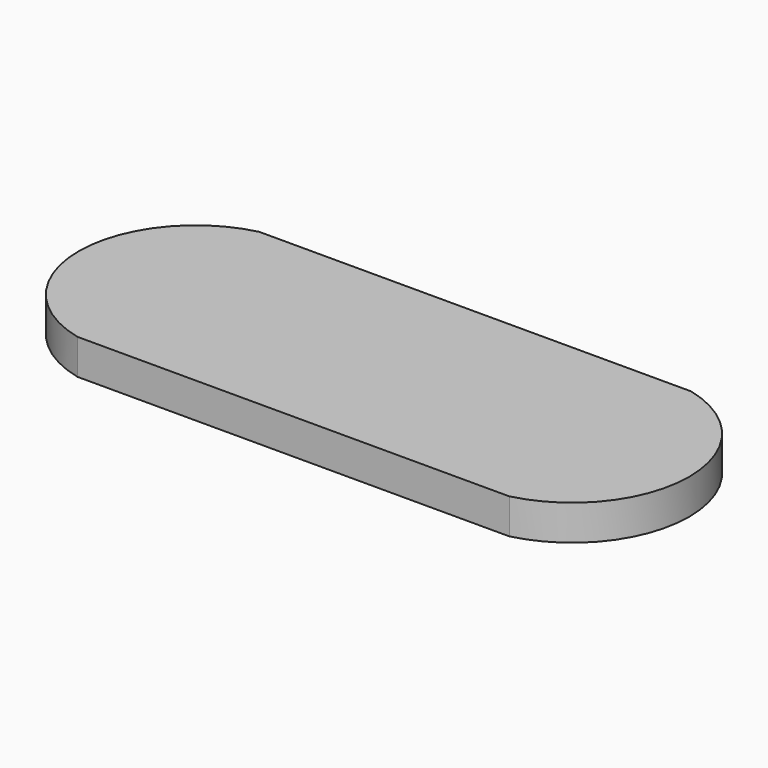
from build123d import *

# Parameters (mm, degrees)
F1_DEPTH = 1
F3_DEPTH = 0.55


with BuildPart() as f1:
    # F0 (on Top) → F1 (new body)
    with BuildSketch(Plane.XY):
        with BuildLine():
            Line((-9.5, -5), (9.5, -5))
            ThreePointArc((9.5, -5), (13.418354, 0), (9.5, 5))
            Line((9.5, 5), (-9.5, 5))
            ThreePointArc((-9.5, 5), (-13.44077, 0), (-9.5, -5))
        make_face()
    extrude(amount=F1_DEPTH)

    # F2 (on face) → F3 (join)
    with BuildSketch(Plane.XY.offset(1)):
        with BuildLine():
            Line((9.5, 5), (-9.5, 5))
            ThreePointArc((-9.5, 5), (-13.44077, 0), (-9.5, -5))
            Line((-9.5, -5), (9.5, -5))
            ThreePointArc((9.5, -5), (13.418354, 0), (9.5, 5))
        make_face()
    extrude(amount=F3_DEPTH)


solid = f1.part
